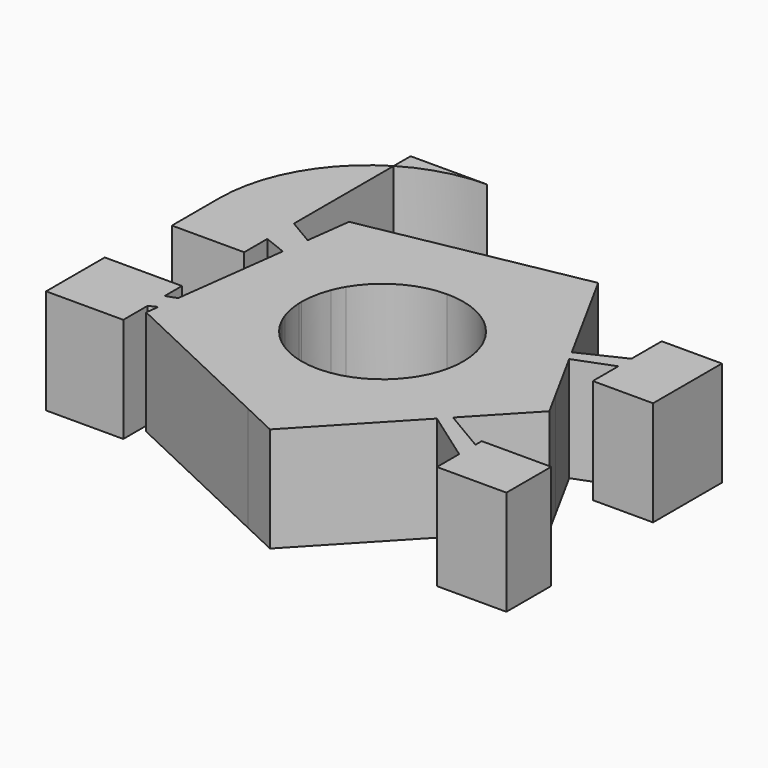
from build123d import *

# Parameters (mm, degrees)
F1_DEPTH = 35.814


with BuildPart() as f1:
    # F0 (on Top) → F1 (new body)
    with BuildSketch(Plane.XY):
        with BuildLine():
            Line((51.7625180093, 0), (27.5901837137, 0))
            ThreePointArc((27.5901837137, 0), (26.6128492382, -7.2783578353), (23.7500865741, -14.0410692284))
            Line((23.7500865741, -14.0410692284), (45.6795035229, -27.0057571909))
            Line((45.6795035229, -27.0057571909), (63.4614136494, -8.1451914058))
            Line((63.4614136494, -8.1451914058), (59.0046110443, 0))
            Line((59.0046110443, 0), (51.7625180093, 0))
        make_face()
        with BuildLine():
            ThreePointArc((25.757346868, 9.8882414855), (27.1281050704, 5.0283349774), (27.5901837137, 0))
            Line((27.5901837137, 0), (51.7625180093, 0))
            Line((51.7625180093, 0), (59.0046110443, 0))
            Line((59.0046110443, 0), (48.7794158137, 18.6874267707))
            Line((48.7794158137, 18.6874267707), (25.757346868, 9.8882414855))
        make_face()
        with BuildLine():
            ThreePointArc((24.933207179, 11.8132729218), (25.3635467533, 10.8585787951), (25.757346868, 9.8882414855))
            Line((25.757346868, 9.8882414855), (48.7794158137, 18.6874267707))
            Line((48.7794158137, 18.6874267707), (46.8570488969, 22.2007182211))
            Line((46.8570488969, 22.2007182211), (24.933207179, 11.8132729218))
        make_face()
        with BuildLine():
            Line((45.6795035229, -27.0057571909), (23.7500865741, -14.0410692284))
            ThreePointArc((23.7500865741, -14.0410692284), (23.1611622563, -14.9926248634), (22.5341352105, -15.9195159371))
            Line((22.5341352105, -15.9195159371), (42.7000339634, -30.1659622101))
            Line((42.7000339634, -30.1659622101), (45.6795035229, -27.0057571909))
        make_face()
        with BuildLine():
            ThreePointArc((0, 27.5901837137), (14.7527602025, 23.3146800056), (24.933207179, 11.8132729218))
            Line((24.933207179, 11.8132729218), (46.8570488969, 22.2007182211))
            Line((46.8570488969, 22.2007182211), (27.3571926677, 57.8383884177))
            Line((27.3571926677, 57.8383884177), (-46.553738744, 43.8912813025))
            Line((-46.553738744, 43.8912813025), (-48.5064647709, 28.6770588287))
            Line((-48.5064647709, 28.6770588287), (-23.7500865741, 14.0410692284))
            ThreePointArc((-23.7500865741, 14.0410692284), (-13.6715499818, 23.9647023443), (0, 27.5901837137))
        make_face()
        Polygon((46.8570488969, 22.2007182211), (48.7794158137, 18.6874267707), (61.6222023964, 23.5960237775), (61.6222023964, 29.1964001954), align=None)
        with BuildLine():
            Line((42.7000339634, -30.1659622101), (22.5341352105, -15.9195159371))
            ThreePointArc((22.5341352105, -15.9195159371), (12.9748741266, -24.3489399924), (0.646933583, -27.5825980338))
            Line((0.646933583, -27.5825980338), (0.646933583, -51.7584751282))
            Line((0.646933583, -51.7584751282), (-0.1141139383, -57.2067654742))
            Line((-0.1141139383, -57.2067654742), (11.8641179418, -62.8723935514))
            Line((11.8641179418, -62.8723935514), (42.7000339634, -30.1659622101))
        make_face()
        Polygon((60.1722635329, -35.5738879206), (45.6795035229, -27.0057571909), (42.7000339634, -30.1659622101), (60.1722635329, -42.5094328821), align=None)
        Polygon((61.6222023964, 29.1964001954), (61.6222023964, 23.5960237775), (61.6222023964, 12.7198761329), (82.1849033237, 12.7198761329), (82.1849033237, 42.1139970422), (61.6222023964, 42.1139970422), align=None)
        with BuildLine():
            Line((0.646933583, -51.7584751282), (0.646933583, -27.5825980338))
            ThreePointArc((0.646933583, -27.5825980338), (0.2959728605, -27.5885961481), (-0.0550357677, -27.5901288221))
            Line((-0.0550357677, -27.5901288221), (-0.1141139383, -57.2067654742))
            Line((-0.1141139383, -57.2067654742), (0.646933583, -51.7584751282))
        make_face()
        Polygon((60.1722635329, -32.8871421516), (60.1722635329, -35.5738879206), (60.1722635329, -42.5094328821), (60.1722635329, -51.9999079406), (83.8984623551, -51.9999079406), (83.8984623551, -32.8871421516), align=None)
        with BuildLine():
            ThreePointArc((-25.6776657916, 10.0933501301), (-24.7925754512, 12.1056366976), (-23.7500865741, 14.0410692284))
            Line((-23.7500865741, 14.0410692284), (-48.5064647709, 28.6770588287))
            Line((-48.5064647709, 28.6770588287), (-49.6806796231, 19.5284298117))
            Line((-49.6806796231, 19.5284298117), (-25.6776657916, 10.0933501301))
        make_face()
        with BuildLine():
            Line((-0.1141139383, -57.2067654742), (-0.0550357677, -27.5901288221))
            ThreePointArc((-0.0550357677, -27.5901288221), (-14.7966318916, -23.2868615751), (-24.9540884816, -11.7690996006))
            Line((-24.9540884816, -11.7690996006), (-55.558786258, -26.2695064246))
            Line((-55.558786258, -26.2695064246), (-56.1289855148, -30.712084763))
            Line((-56.1289855148, -30.712084763), (-0.1141139383, -57.2067654742))
        make_face()
        with BuildLine():
            ThreePointArc((-27.5901837137, 0), (-27.1078379245, 5.1364735386), (-25.6776657916, 10.0933501301))
            Line((-25.6776657916, 10.0933501301), (-49.6806796231, 19.5284298117))
            Line((-49.6806796231, 19.5284298117), (-52.4280109182, -1.8767796021))
            Line((-52.4280109182, -1.8767796021), (-51.7625180093, 0))
            Line((-51.7625180093, 0), (-27.5901837137, 0))
        make_face()
        Polygon((-49.6806796231, 19.5284298117), (-48.5064647709, 28.6770588287), (-57.4042089283, 33.9374119352), (-57.4042089283, 22.5643866682), align=None)
        with BuildLine():
            Line((-55.558786258, -26.2695064246), (-24.9540884816, -11.7690996006))
            ThreePointArc((-24.9540884816, -11.7690996006), (-25.5436141585, -10.4279438566), (-26.0611201377, -9.0573867382))
            Line((-26.0611201377, -9.0573867382), (-54.6237197743, -18.9841477443))
            Line((-54.6237197743, -18.9841477443), (-55.558786258, -26.2695064246))
        make_face()
        with BuildLine():
            ThreePointArc((-27.5598451654, -1.2935114286), (-27.5825980338, -0.646933583), (-27.5901837137, 0))
            Line((-27.5901837137, 0), (-51.7625180093, 0))
            Line((-51.7625180093, 0), (-52.4280109182, -1.8767796021))
            Line((-52.4280109182, -1.8767796021), (-27.5598451654, -1.2935114286))
        make_face()
        with BuildLine():
            Line((-57.4042089283, 22.5643866682), (-57.4042089283, 33.9374119352))
            Line((-57.4042089283, 33.9374119352), (-57.4042089283, 76.5046922763))
            ThreePointArc((-57.4042089283, 76.5046922763), (-75.4889931725, 57.9712056034), (-82.0888903124, 32.9314191196))
            Line((-82.0888903124, 32.9314191196), (-82.0888903124, 12.7198761329))
            Line((-82.0888903124, 12.7198761329), (-57.4042089283, 12.7198761329))
            Line((-57.4042089283, 12.7198761329), (-57.4042089283, 22.5643866682))
        make_face()
        with BuildLine():
            ThreePointArc((-26.0611201377, -9.0573867382), (-27.0900612765, -5.2294184564), (-27.5598451654, -1.2935114286))
            Line((-27.5598451654, -1.2935114286), (-52.4280109182, -1.8767796021))
            Line((-52.4280109182, -1.8767796021), (-54.6237197743, -18.9841477443))
            Line((-54.6237197743, -18.9841477443), (-26.0611201377, -9.0573867382))
        make_face()
        Polygon((-58.1950843334, -27.5185759263), (-55.558786258, -26.2695064246), (-54.6237197743, -18.9841477443), (-58.1950843334, -20.2253541784), align=None)
        Polygon((-58.1950843334, -37.8960072994), (-58.1950843334, -27.5185759263), (-58.1950843334, -20.2253541784), (-58.1950843334, -12.8516880795), (-84.5575258136, -12.8516880795), (-84.5575258136, -37.8960072994), align=None)
    extrude(amount=F1_DEPTH)


with BuildPart() as f1b:
    # F0 (on Top) → F1, piece 2 (new body)
    with BuildSketch(Plane.XY):
        with BuildLine():
            Line((-57.4042089283, 83.7314191196), (-57.4042089283, 76.5046922763))
            ThreePointArc((-57.4042089283, 76.5046922763), (-44.8372799518, 81.8914144033), (-31.2888903124, 83.7314191196))
            Line((-31.2888903124, 83.7314191196), (-57.4042089283, 83.7314191196))
        make_face()
    extrude(amount=F1_DEPTH)


solid = Compound([f1.part, f1b.part])
